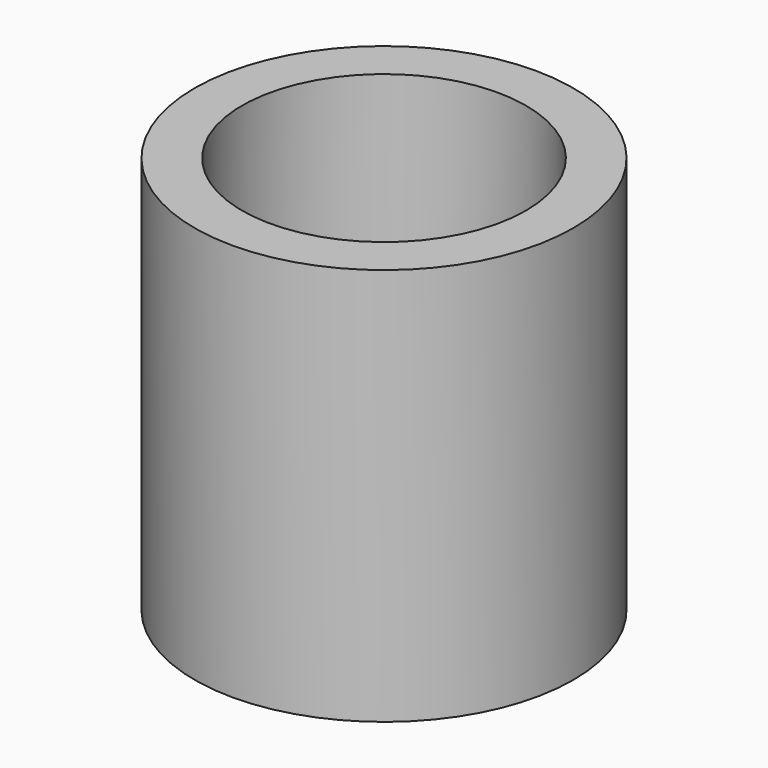
from build123d import *

# Parameters (mm, degrees)
F0_R     = 4
F0_R_2   = 1.2
F1_DEPTH = 4.2
F4_SIZE  = 0.4
F2_R     = 4
F2_R_2   = 3
F3_DEPTH = 4.2


with BuildPart() as f1:
    # F0 (on Top) → F1 (new body)
    with BuildSketch(Plane.XY):
        Circle(F0_R)
        Circle(F0_R_2, mode=Mode.SUBTRACT)
        Circle(F0_R)
        Circle(F0_R_2, mode=Mode.SUBTRACT)
    extrude(amount=F1_DEPTH)

    # F4
    f4_edges = [f1.edges().sort_by_distance(p)[0] for p in [
        (-1.2, 0, 0),
    ]]
    chamfer(f4_edges, length=F4_SIZE)

    # F2 (on face) → F3 (join)
    with BuildSketch(Plane.XY.offset(4.2)):
        Circle(F2_R)
        Circle(F2_R_2, mode=Mode.SUBTRACT)
    extrude(amount=F3_DEPTH)


solid = f1.part
